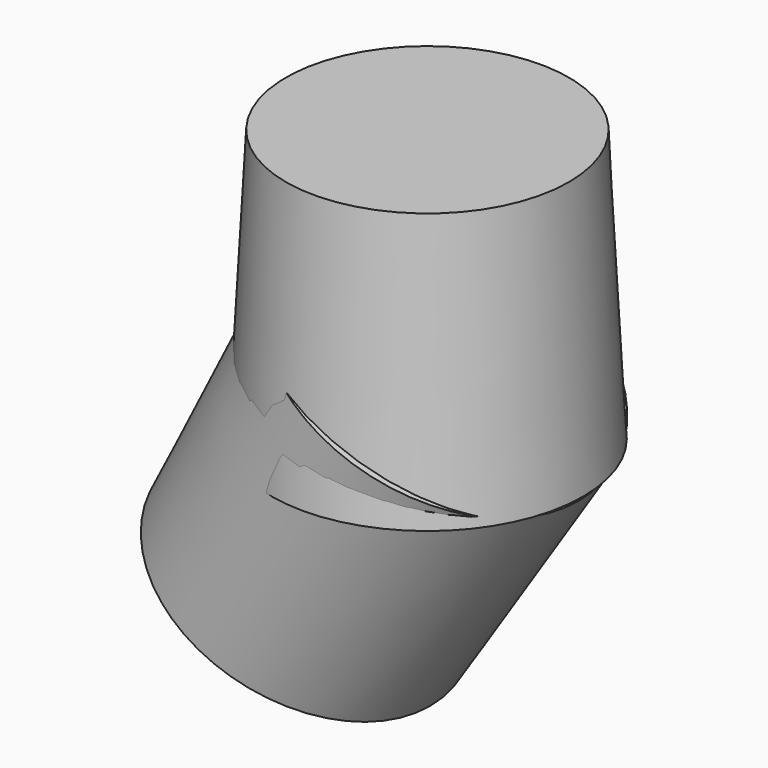
from build123d import *

# Parameters (mm, degrees)
CONE001_PLACEMENT_ANGLE = 30


with BuildPart() as cone:
    # Cone → Cone (revolve)
    with BuildSketch(Plane.XZ):
        Polygon((0, 0), (14.3, 0), (13, 25), (0, 25), align=None)
    revolve(axis=Axis((0, 0, 0), (0, 0, 1)))


with BuildPart() as cone001:
    # Cone001 → Cone001 (revolve)
    with BuildSketch(Plane.XZ):
        Polygon((0, 0), (13, 0), (14.3, 25), (0, 25), align=None)
    revolve(axis=Axis((0, 0, 0), (0, 0, 1)))


with BuildPart() as cone001_1:
    # Cone001 placement: moved
    add(cone001.part.moved(Location((-11, 0, -15))).rotate(Axis((-11, 0, -15), (0, 1, 0)), CONE001_PLACEMENT_ANGLE))


solid = Compound([cone.part, cone001_1.part])
